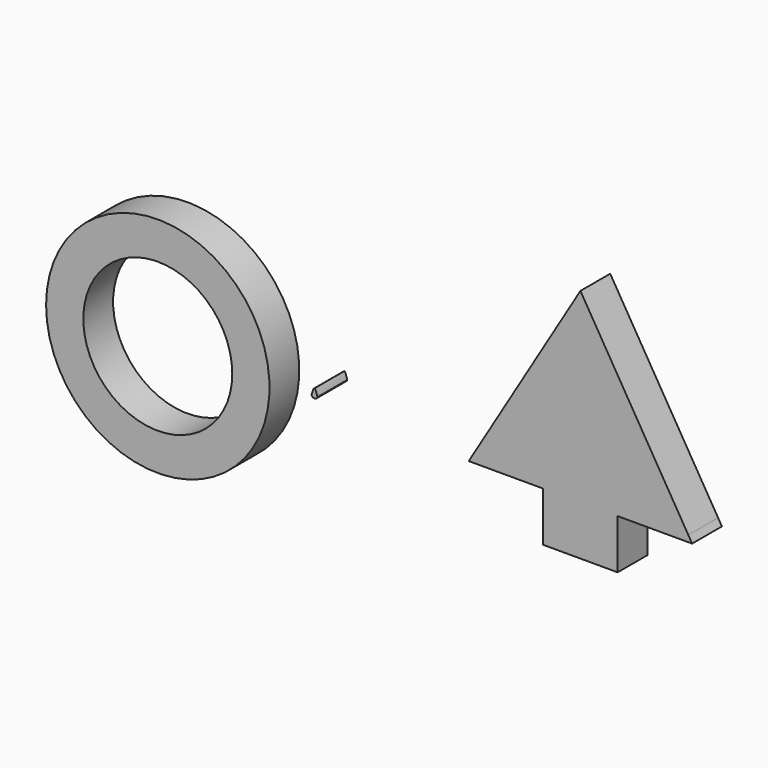
from build123d import *

# Parameters (mm, degrees)
F1_DEPTH = 1.27


with BuildPart() as f1:
    # F0 (on Front) → F1 (new body)
    with BuildSketch(Plane.XZ):
        with BuildLine():
            Line((0.130682, 0.217803), (0, 0))
            Line((0, 0), (0.254, 0))
            ThreePointArc((0.254, 0), (0.128855, 0.072956), (0.130682, 0.217803))
        make_face()
        with BuildLine():
            ThreePointArc((0.130682, 0.217803), (0.128855, 0.072956), (0.254, 0))
            Line((0.254, 0), (2.54, 0))
            Line((2.54, 0), (3.81, 0))
            Line((3.81, 0), (3.81, 6.35))
            Line((3.81, 6.35), (0.130682, 0.217803))
        make_face()
        Polygon((3.81, 0), (2.54, 0), (2.54, -1.688838), (5.08, -1.688838), (5.08, 0), align=None)
        with BuildLine():
            Line((7.489318, 0.217803), (3.81, 6.35))
            Line((3.81, 6.35), (3.81, 0))
            Line((3.81, 0), (5.08, 0))
            Line((5.08, 0), (7.366, 0))
            ThreePointArc((7.366, 0), (7.491145, 0.072956), (7.489318, 0.217803))
        make_face()
        with BuildLine():
            Line((7.62, 0), (7.489318, 0.217803))
            ThreePointArc((7.489318, 0.217803), (7.491145, 0.072956), (7.366, 0))
            Line((7.366, 0), (7.62, 0))
        make_face()
        with BuildLine():
            ThreePointArc((-6.795614, 0), (-10.605614, 3.81), (-14.415614, 0))
            ThreePointArc((-14.415614, 0), (-10.605614, -3.81), (-6.795614, 0))
        make_face()
        with BuildLine():
            ThreePointArc((-13.145614, 0), (-10.605614, 2.54), (-8.065614, 0))
            ThreePointArc((-8.065614, 0), (-10.605614, -2.54), (-13.145614, 0))
        make_face(mode=Mode.SUBTRACT)
        with BuildLine():
            add(Edge.make_bspline(
                [(-5.362316, 0.244631), (-5.328451, 0.358824), (-5.29447, 0.473083), (-5.260716, 0.473231)],
                knots=[0, 0, 0, 0, 0.250161, 0.250161, 0.250161, 0.250161], degree=3))
            Line((-5.362316, 0.244631), (-5.260716, 0.244631))
            Line((-5.260716, 0.244631), (-5.260716, 0.473231))
        make_face()
        with BuildLine():
            Line((-5.260716, 0.244631), (-5.362316, 0.244631))
            ThreePointArc((-5.362316, 0.244631), (-5.324216, 0.189598), (-5.260716, 0.168431))
            Line((-5.260716, 0.168431), (-5.260716, 0.244631))
        make_face()
        with BuildLine():
            Line((-5.260716, 0.473231), (-5.260716, 0.244631))
            Line((-5.260716, 0.244631), (-5.159724, 0.244631))
            add(Edge.make_bspline(
                [(-5.260716, 0.473231), (-5.226939, 0.473379), (-5.193389, 0.359263), (-5.159724, 0.244631)],
                knots=[0.250161, 0.250161, 0.250161, 0.250161, 0.500491, 0.500491, 0.500491, 0.500491], degree=3))
        make_face()
        with BuildLine():
            Line((-5.159724, 0.244631), (-5.260716, 0.244631))
            Line((-5.260716, 0.244631), (-5.260716, 0.168431))
            ThreePointArc((-5.260716, 0.168431), (-5.197646, 0.189276), (-5.159422, 0.2436))
            add(Edge.make_bspline(
                [(-5.159724, 0.244631), (-5.159624, 0.244288), (-5.159523, 0.243944), (-5.159422, 0.2436)],
                knots=[0.500491, 0.500491, 0.500491, 0.500491, 0.501241, 0.501241, 0.501241, 0.501241], degree=3))
        make_face()
        with BuildLine():
            Line((-5.159116, 0.244631), (-5.159724, 0.244631))
            add(Edge.make_bspline(
                [(-5.159724, 0.244631), (-5.159624, 0.244288), (-5.159523, 0.243944), (-5.159422, 0.2436)],
                knots=[0.500491, 0.500491, 0.500491, 0.500491, 0.501241, 0.501241, 0.501241, 0.501241], degree=3))
            ThreePointArc((-5.159422, 0.2436), (-5.159267, 0.244115), (-5.159116, 0.244631))
        make_face()
        with BuildLine():
            ThreePointArc((-5.159116, 0.244631), (-5.159267, 0.244115), (-5.159422, 0.2436))
            add(Edge.make_bspline(
                [(-5.159422, 0.2436), (-5.15939, 0.243491), (-5.159357, 0.243381), (-5.159325, 0.243272)],
                knots=[0.501241, 0.501241, 0.501241, 0.501241, 0.50148, 0.50148, 0.50148, 0.50148], degree=3))
            add(Edge.make_bspline(
                [(-5.159325, 0.243272), (-5.159255, 0.243725), (-5.159185, 0.244178), (-5.159116, 0.244631)],
                knots=[0.000688, 0.000688, 0.000688, 0.000688, 0.002063, 0.002063, 0.002063, 0.002063], degree=3))
        make_face()
    extrude(amount=F1_DEPTH)


solid = f1.part
